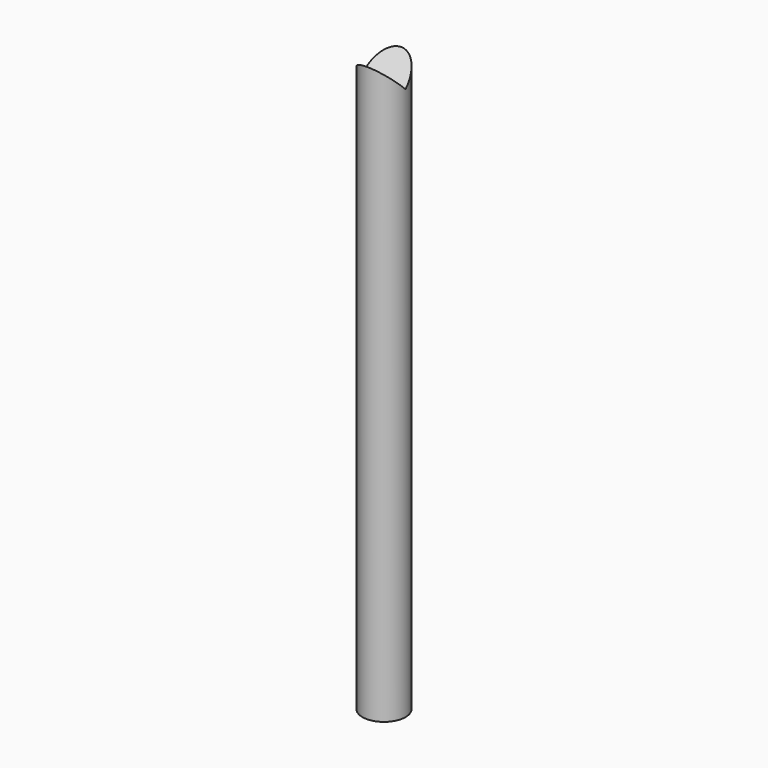
from build123d import *

# Parameters (mm, degrees)
F0_R          = 19.05
F1_DEPTH      = 508
F5_DEPTH      = 25.4
F5_DEPTH_BACK = 25.4


with BuildPart() as f1:
    # F0 (on Top) → F1 (new body)
    with BuildSketch(Plane.XY):
        Circle(F0_R)
        Circle(F0_R)
    extrude(amount=F1_DEPTH)

    # F4 (on face) → F5 (cut, two sides)
    with BuildSketch(Plane.YZ) as f5_sk:
        Polygon((19.05, 508), (-19.05, 508), (0, 488.95), align=None)
    extrude(amount=F5_DEPTH, mode=Mode.SUBTRACT)
    extrude(f5_sk.sketch, amount=-F5_DEPTH_BACK, mode=Mode.SUBTRACT)


solid = f1.part
